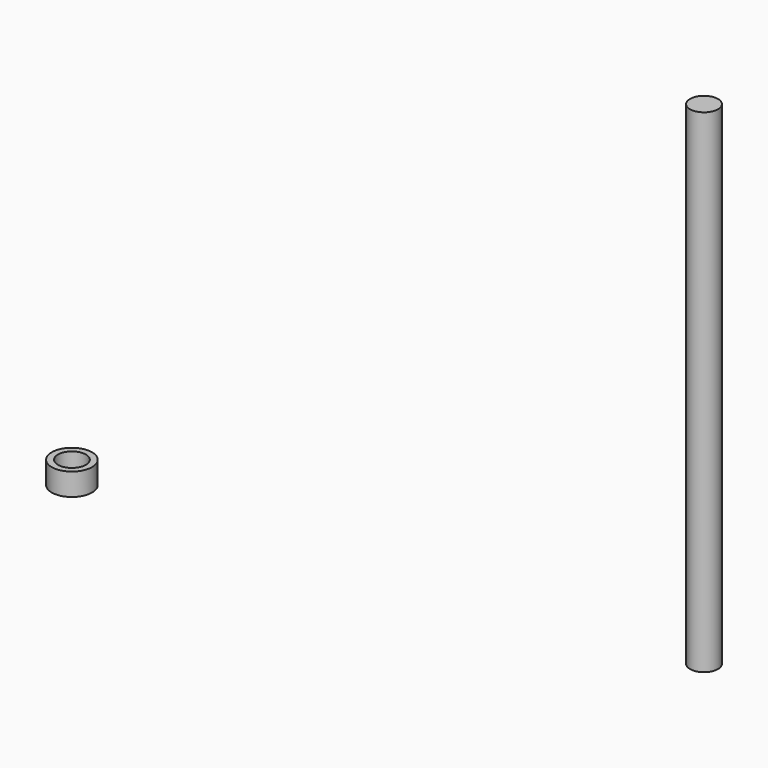
from build123d import *

# Parameters (mm, degrees)
F0_R     = 2.5
F1_DEPTH = 88
F2_R     = 3.6
F2_R_2   = 2.5
F3_DEPTH = 4


with BuildPart() as f1:
    # F0 (on Top) → F1 (new body)
    with BuildSketch(Plane.XY):
        Circle(F0_R)
    extrude(amount=F1_DEPTH)


with BuildPart() as f3:
    # F2 (on Top) → F3 (new body)
    with BuildSketch(Plane.XY):
        with Locations((-102.547772, -12.898434)):
            Circle(F2_R)
        with Locations((-102.547772, -12.898434)):
            Circle(F2_R_2, mode=Mode.SUBTRACT)
    extrude(amount=F3_DEPTH)


solid = Compound([f1.part, f3.part])
